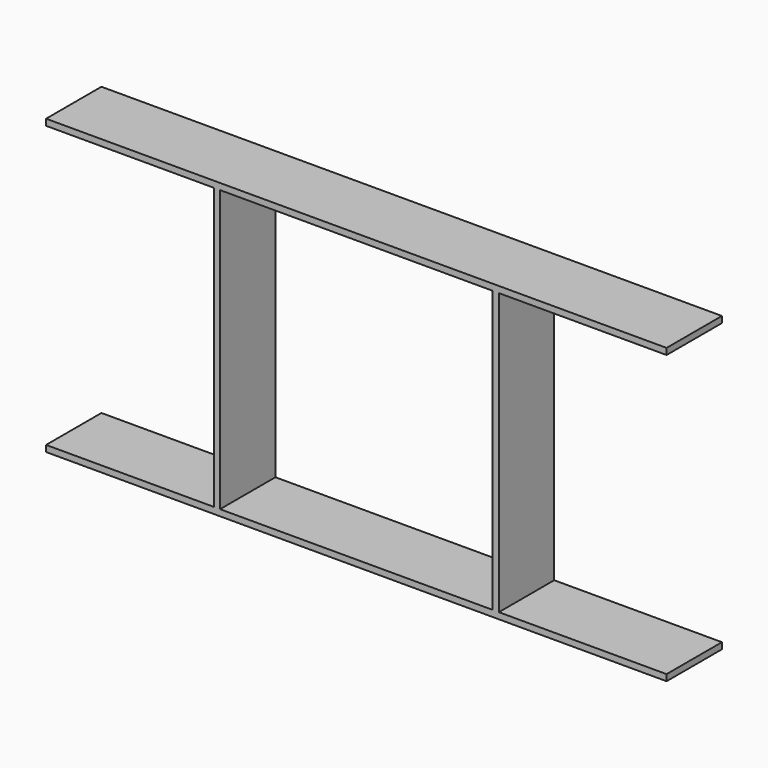
from build123d import *

# Parameters (mm, degrees)
F0_W     = 650
F0_H     = 670
F1_DEPTH = 165


with BuildPart() as f1:
    # F0 (on Front) → F1 (new body)
    with BuildSketch(Plane.XZ):
        Polygon((-780.510312, 436.215634), (-780.510312, 421.215634), (-380.510312, 421.215634), (-380.510312, -248.784366), (-780.510312, -248.784366), (-780.510312, -263.784366), (699.489688, -263.784366), (699.489688, -248.784366), (299.489688, -248.784366), (299.489688, 421.215634), (699.489688, 421.215634), (699.489688, 436.215634), align=None)
        with Locations((-40.510312, 86.215634)):
            Rectangle(F0_W, F0_H, mode=Mode.SUBTRACT)
    extrude(amount=F1_DEPTH)


solid = f1.part
